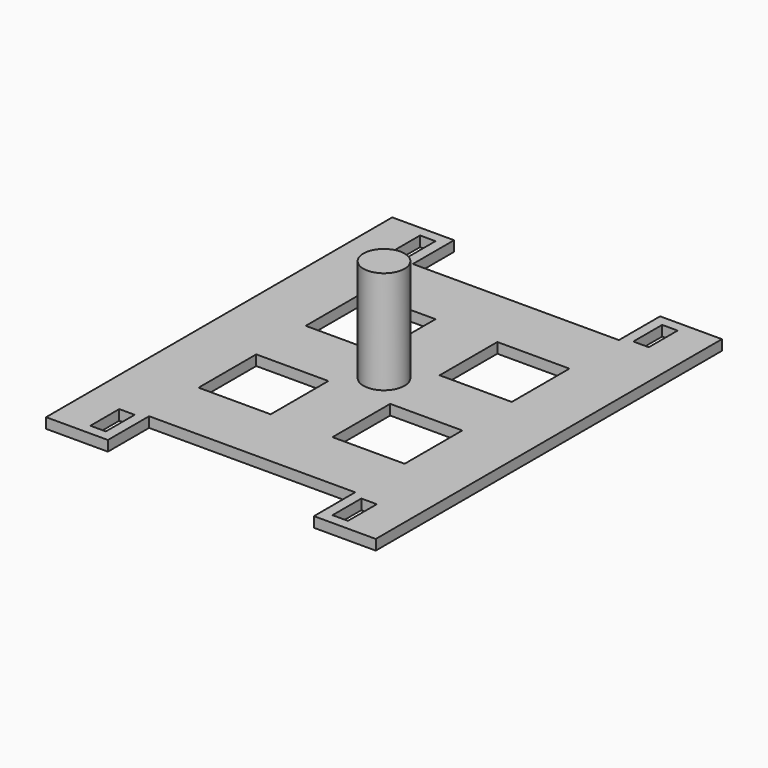
from build123d import *

# Parameters (mm, degrees)
SKETCH_W     = 14
SKETCH_H     = 14
SKETCH_W_2   = 3
SKETCH_H_2   = 7
PAD_DEPTH    = 2
SKETCH006_R  = 4
PAD001_DEPTH = 20


with BuildPart() as part:
    # Sketch → Pad (new body)
    with BuildSketch(Plane.XY):
        Polygon((64, 0), (64, 84), (52, 84), (52, 74), (12, 74), (12, 84), (0, 84), (0, 0), (12, 0), (12, 10), (52, 10), (52, 0), align=None)
        with Locations((19, 55)):
            Rectangle(SKETCH_W, SKETCH_H, mode=Mode.SUBTRACT)
        with Locations((45, 55)):
            Rectangle(SKETCH_W, SKETCH_H, mode=Mode.SUBTRACT)
        with Locations((19, 29)):
            Rectangle(SKETCH_W, SKETCH_H, mode=Mode.SUBTRACT)
        with Locations((45, 29)):
            Rectangle(SKETCH_W, SKETCH_H, mode=Mode.SUBTRACT)
        with Locations((8.5, 5.5)):
            Rectangle(SKETCH_W_2, SKETCH_H_2, mode=Mode.SUBTRACT)
        with Locations((55.5, 5.5)):
            Rectangle(SKETCH_W_2, SKETCH_H_2, mode=Mode.SUBTRACT)
        with Locations((55.5, 78.5)):
            Rectangle(SKETCH_W_2, SKETCH_H_2, mode=Mode.SUBTRACT)
        with Locations((8.5, 78.5)):
            Rectangle(SKETCH_W_2, SKETCH_H_2, mode=Mode.SUBTRACT)
    extrude(amount=PAD_DEPTH)

    # Sketch006 → Pad001 (join)
    with BuildSketch(Plane.XY.offset(2)):
        with Locations((32, 42)):
            Circle(SKETCH006_R)
    extrude(amount=PAD001_DEPTH)


solid = part.part
